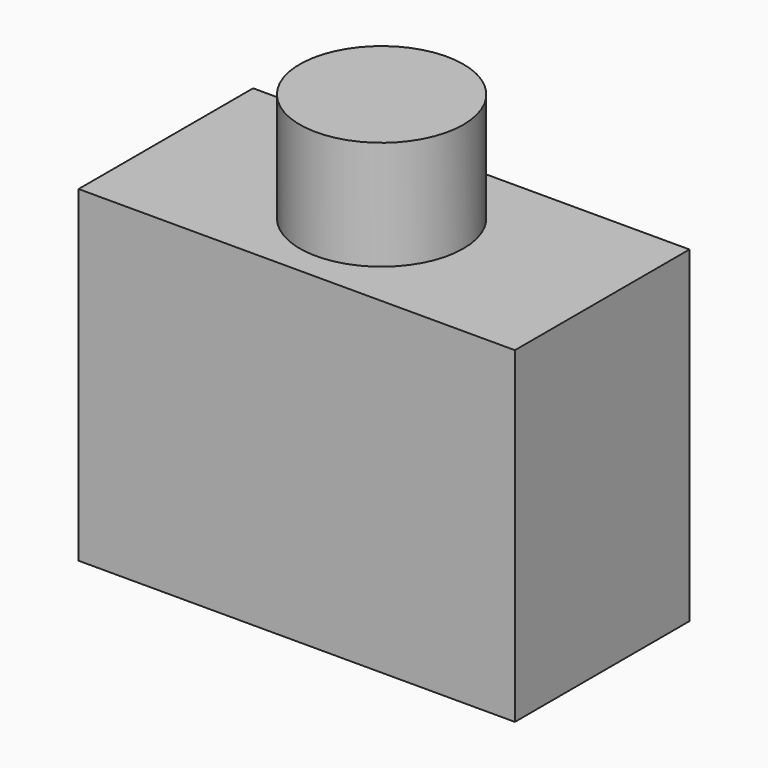
from build123d import *

# Parameters (mm, degrees)
F0_W     = 50.8
F0_H     = 38.1
F1_DEPTH = 12.7
F2_R     = 9.525
F3_DEPTH = 12.7


with BuildPart() as f1:
    # F0 (on Front) → F1 (new body, symmetric)
    with BuildSketch(Plane.XZ):
        with Locations((-25.4, 19.05)):
            Rectangle(F0_W, F0_H)
    extrude(amount=F1_DEPTH, both=True)

    # F2 (on face) → F3 (join)
    with BuildSketch(Plane.XY.offset(38.1)):
        with Locations((-25.677594, 0)):
            Circle(F2_R)
    extrude(amount=F3_DEPTH)


solid = f1.part
